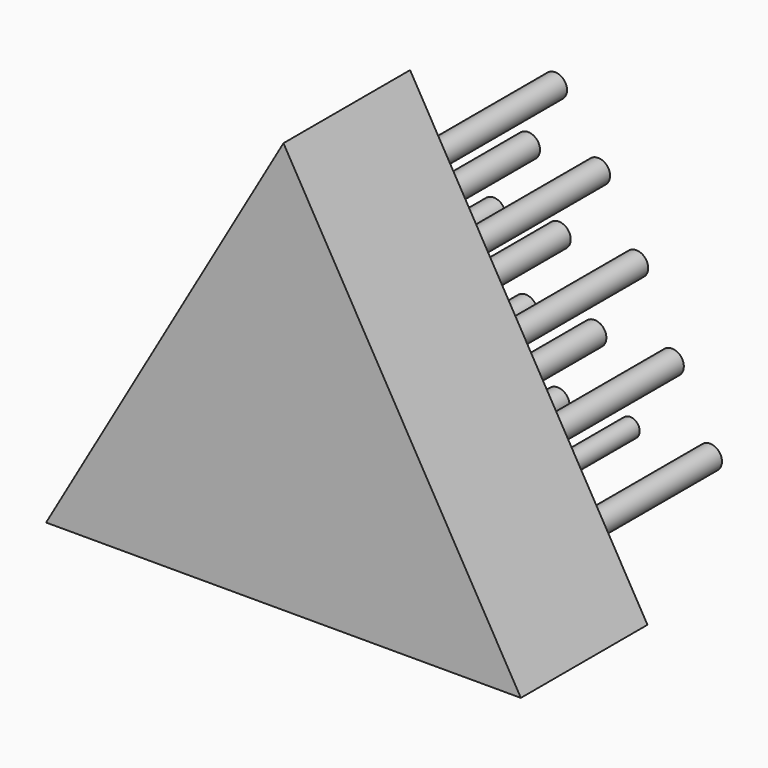
from build123d import *

# Parameters (mm, degrees)
F1_DEPTH  = 25.4
F2_R      = 2.54
F3_DEPTH  = 22.86
F4_R      = 2.54
F5_DEPTH  = 22.86
F6_R      = 2.54
F7_DEPTH  = 22.86
F8_R      = 2.54
F9_DEPTH  = 22.86
F10_R     = 2.54
F11_DEPTH = 22.86
F12_R     = 1.905
F12_R_2   = 1.519307
F13_DEPTH = 29.21


with BuildPart() as f1:
    # F0 (on Front) → F1 (new body)
    with BuildSketch(Plane.XZ):
        Polygon((-38.1, 65.991136), (-76.2, 0), (0, 0), align=None)
    extrude(amount=F1_DEPTH)

    # F2 (on Front) → F3 (cut)
    with BuildSketch(Plane.XZ):
        with Locations((-37.78524, 7.497855)):
            Circle(F2_R)
        with Locations((-48.637398, 7.497855)):
            Circle(F2_R)
        with Locations((-26.143834, 7.497855)):
            Circle(F2_R)
        with Locations((-59.884183, 7.497855)):
            Circle(F2_R)
        with Locations((-13.318556, 7.497855)):
            Circle(F2_R)
    extrude(amount=F3_DEPTH, mode=Mode.SUBTRACT)

    # F4 (on Front) → F5 (cut)
    with BuildSketch(Plane.XZ):
        with Locations((-31.865884, 18.941948)):
            Circle(F4_R)
        with Locations((-19.435227, 18.941948)):
            Circle(F4_R)
        with Locations((-42.915355, 18.941948)):
            Circle(F4_R)
        with Locations((-53.372886, 18.941948)):
            Circle(F4_R)
    extrude(amount=F5_DEPTH, mode=Mode.SUBTRACT)

    # F6 (on Front) → F7 (cut)
    with BuildSketch(Plane.XZ):
        with Locations((-25.157275, 30.977979)):
            Circle(F6_R)
        with Locations((-37.58793, 30.977979)):
            Circle(F6_R)
        with Locations((-48.045464, 30.977979)):
            Circle(F6_R)
    extrude(amount=F7_DEPTH, mode=Mode.SUBTRACT)

    # F8 (on Front) → F9 (cut)
    with BuildSketch(Plane.XZ):
        with Locations((-31.273946, 42.027447)):
            Circle(F8_R)
        with Locations((-42.520728, 42.027447)):
            Circle(F8_R)
    extrude(amount=F9_DEPTH, mode=Mode.SUBTRACT)

    # F10 (on Front) → F11 (cut)
    with BuildSketch(Plane.XZ):
        with Locations((-38.179867, 51.893044)):
            Circle(F10_R)
    extrude(amount=F11_DEPTH, mode=Mode.SUBTRACT)


with BuildPart() as f13:
    # F12 (on face) → F13 (new body)
    with BuildSketch(Plane(origin=(0, 0, 0), x_dir=(-1, 0, 0), z_dir=(0, 1, 0))):
        with Locations((38.179867, 51.893044)):
            Circle(F12_R)
        with Locations((31.273946, 42.027447)):
            Circle(F12_R)
        with Locations((42.520728, 42.027447)):
            Circle(F12_R)
        with Locations((48.045464, 30.977979)):
            Circle(F12_R)
        with Locations((37.58793, 30.977979)):
            Circle(F12_R)
        with Locations((25.157275, 30.977979)):
            Circle(F12_R)
        with Locations((19.435227, 18.941948)):
            Circle(F12_R)
        with Locations((31.865884, 18.941948)):
            Circle(F12_R)
        with Locations((42.915355, 18.941948)):
            Circle(F12_R)
        with Locations((53.372886, 18.941948)):
            Circle(F12_R)
        with Locations((13.318556, 7.497855)):
            Circle(F12_R)
        with Locations((26.143834, 7.497855)):
            Circle(F12_R_2)
        with Locations((37.78524, 7.497855)):
            Circle(F12_R)
        with Locations((48.637398, 7.497855)):
            Circle(F12_R)
        with Locations((59.884183, 7.497855)):
            Circle(F12_R)
    extrude(amount=F13_DEPTH)


solid = Compound([f1.part, f13.part])
